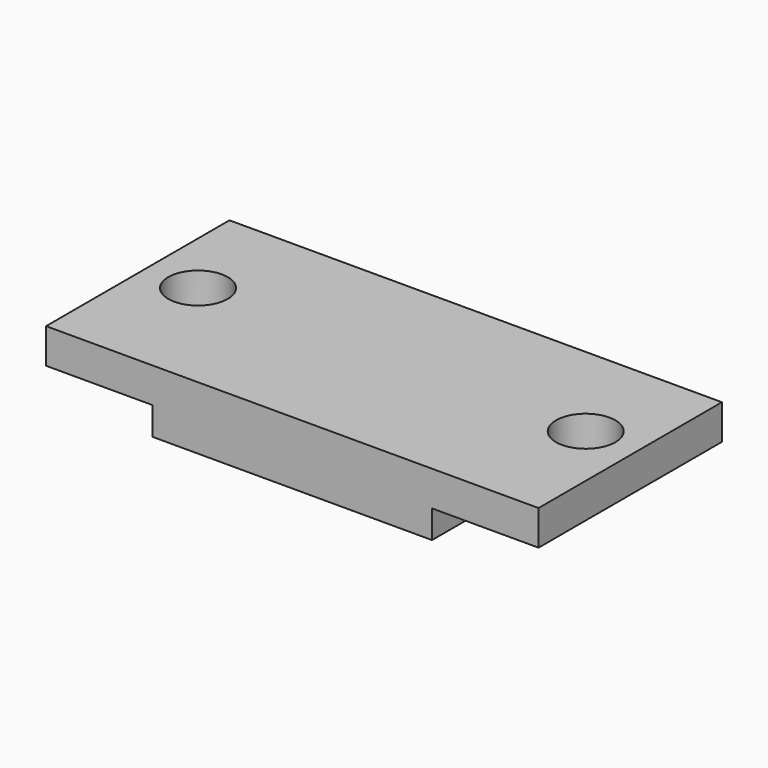
from build123d import *

# Parameters (mm, degrees)
SKETCH018_W     = 16
SKETCH018_H     = 13.125
PAD006_DEPTH    = 1.6
SKETCH019_W     = 28.2
SKETCH019_H     = 13.125
PAD007_DEPTH    = 2
SKETCH020_R     = 1.7
POCKET007_DEPTH = 2


with BuildPart() as part:
    # Sketch018 → Pad006 (new body)
    with BuildSketch(Plane.XY):
        with Locations((0, 28.2)):
            Rectangle(SKETCH018_W, SKETCH018_H)
    extrude(amount=PAD006_DEPTH)

    # Sketch019 (on Face6 of Pad006) → Pad007 (join)
    with BuildSketch(Plane.XY.offset(1.6)):
        with Locations((0, 28.2)):
            Rectangle(SKETCH019_W, SKETCH019_H)
    extrude(amount=PAD007_DEPTH)

    # Sketch020 (on Face7 of Pad007) → Pocket007 (cut)
    with BuildSketch(Plane.XY.offset(3.6)):
        with Locations((-11.1, 28.7625)):
            Circle(SKETCH020_R)
        with Locations((11.1, 28.7625)):
            Circle(SKETCH020_R)
    extrude(amount=-POCKET007_DEPTH, mode=Mode.SUBTRACT)


with BuildPart() as part_1:
    # Body003 placement: moved
    add(part.part.moved(Location((0, 0, 2.4))))


solid = part_1.part
